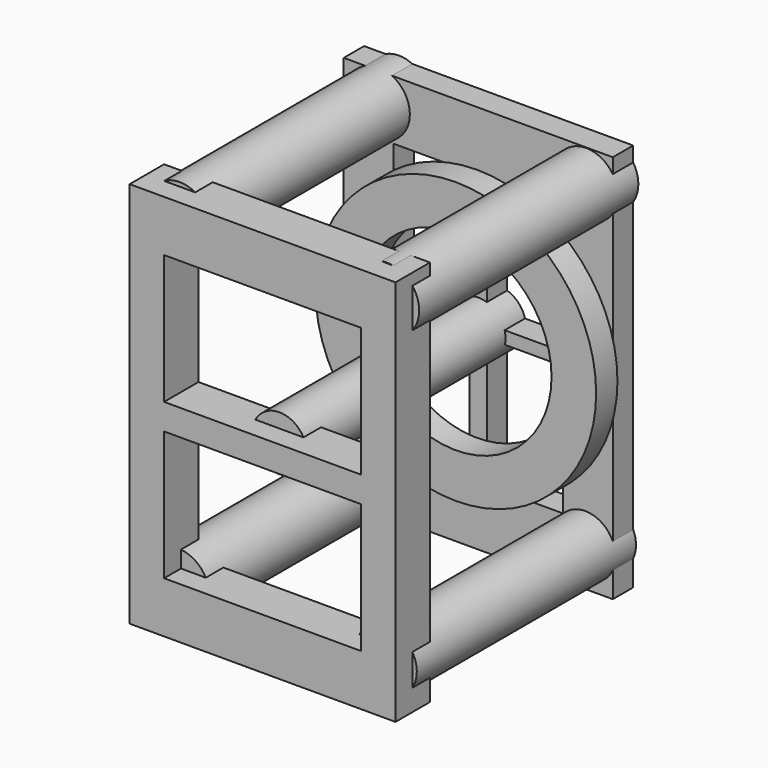
from build123d import *

# Parameters (mm, degrees)
F0_W     = 77.8246372938
F0_H     = 112.5469133258
F0_W_2   = 21.9748611562
F0_H_2   = 3.6779557122
F0_W_3   = 22.0251933206
F1_DEPTH = 7.366
F2_R     = 7.9006710882
F2_R_2   = 9.1916040088
F2_R_3   = 9.0636867771
F2_R_4   = 8.7975277967
F2_R_5   = 9.2142672279
F3_DEPTH = 79.248
F4_R     = 0.8182750857
F4_R_2   = 0.8655541006
F5_DEPTH = 7.8486
F7_START = 7.7978
F6_R     = 40.6030276707
F6_R_2   = 27.6936887415
F7_DEPTH = 7.6962
F9_START = 72.898
F8_W     = 76.8951624632
F8_H     = 111.9272559881
F8_W_2   = 56.9818727672
F8_H_2   = 37.3910360504
F9_DEPTH = 12.446


with BuildPart() as f1:
    # F0 (on Front) → F1 (new body)
    with BuildSketch(Plane.XZ):
        Rectangle(F0_W, F0_H)
        Polygon((-2.5131949224, -39.1017198563), (-24.4880560786, -39.1017198563), (-24.4880560786, -1.622540527), (-24.4880560786, 2.0554151852), (-24.4880560786, 39.1017198563), (-2.5131949224, 39.1017198563), (2.462862758, 39.1017198563), (24.4880560786, 39.1017198563), (24.4880560786, 2.0554151852), (24.4880560786, -1.622540527), (24.4880560786, -39.1017198563), (2.462862758, -39.1017198563), align=None, mode=Mode.SUBTRACT)
        with Locations((-13.5006255005, 0.2164373291)):
            Rectangle(F0_W_2, F0_H_2)
        with Locations((13.4754594183, 0.2164373291)):
            Rectangle(F0_W_3, F0_H_2)
        Polygon((-2.5131949224, -1.622540527), (-2.5131949224, -39.1017198563), (2.462862758, -39.1017198563), (2.462862758, -1.622540527), (2.462862758, 2.0554151852), (2.462862758, 39.1017198563), (-2.5131949224, 39.1017198563), (-2.5131949224, 2.0554151852), align=None)
    extrude(amount=F1_DEPTH)

    # F2 (on Front) → F3 (join)
    with BuildSketch(Plane.XZ):
        Circle(F2_R)
        with Locations((31.2162749469, 46.9267778099)):
            Circle(F2_R_2)
        with Locations((-28.8526788354, 48.0819493532)):
            Circle(F2_R_3)
        with Locations((30.9274848551, -45.1982095838)):
            Circle(F2_R_4)
        with Locations((-29.4302646071, -45.4870015383)):
            Circle(F2_R_5)
    extrude(amount=F3_DEPTH)

    # F4 (on Front) → F5 (join)
    with BuildSketch(Plane.XZ):
        with Locations((33.0372042954, 0)):
            Circle(F4_R)
        with Locations((-32.0478864014, 0)):
            Circle(F4_R_2)
    extrude(amount=F5_DEPTH)

    # F6 (on Front) → F7 (join)
    with BuildSketch(Plane.XZ.offset(F7_START)):
        Circle(F6_R)
        Circle(F6_R_2, mode=Mode.SUBTRACT)
    extrude(amount=F7_DEPTH)

    # F8 (on Front) → F9 (join)
    with BuildSketch(Plane.XZ.offset(F9_START)):
        Rectangle(F8_W, F8_H)
        with Locations((0, -22.4545601523)):
            Rectangle(F8_W_2, F8_H_2, mode=Mode.SUBTRACT)
        with Locations((0, 22.4545601523)):
            Rectangle(F8_W_2, F8_H_2, mode=Mode.SUBTRACT)
    extrude(amount=F9_DEPTH)


solid = f1.part
